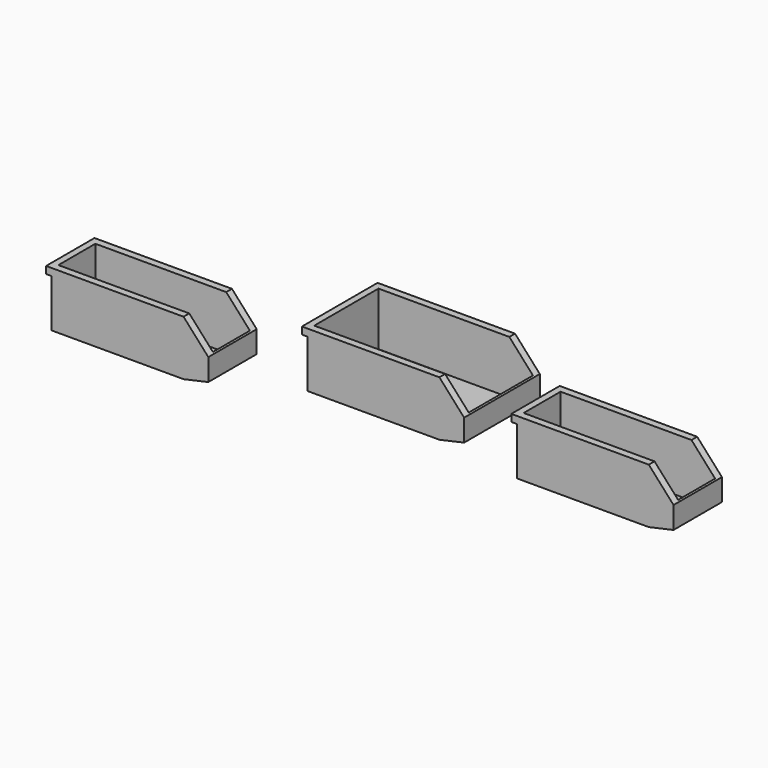
from build123d import *

# Parameters (mm, degrees)
F0_W      = 295
F0_H      = 172
F1_DEPTH  = 100
F3_W      = 281
F3_H      = 146
F4_DEPTH  = 97
F2_W      = 10
F2_H      = 87
F5_DEPTH  = 172.001
F6_W      = 46.097722
F6_H      = 172
F7_DEPTH  = 3
F8_W      = 295
F8_H      = 110
F9_DEPTH  = 100
F12_W     = 281
F12_H     = 84
F13_DEPTH = 97
F10_W     = 10
F10_H     = 87
F14_DEPTH = 167.500991
F11_W     = 10
F11_H     = 87
F15_DEPTH = 110.001
F16_DEPTH = 97
F17_W     = 46.097722
F17_H     = 110
F18_DEPTH = 3
F19_W     = 46.097722
F19_H     = 110
F20_DEPTH = 3


with BuildPart() as f1:
    # F0 (on Top) → F1 (new body)
    with BuildSketch(Plane.XY):
        Rectangle(F0_W, F0_H)
    extrude(amount=F1_DEPTH)

    # F3 (on face) → F4 (cut)
    with BuildSketch(Plane.XY.offset(100)):
        with Locations((5, 0)):
            Rectangle(F3_W, F3_H)
    extrude(amount=-F4_DEPTH, mode=Mode.SUBTRACT)

    # F2 (on face) → F5 (cut, through all)
    with BuildSketch(Plane.XZ.offset(86)):
        with Locations((-142.5, 43.5)):
            Rectangle(F2_W, F2_H)
        Polygon((102.5, 100), (147.5, 50), (147.5, 100), align=None)
        Polygon((147.5, 0), (147.5, 10), (102.5, 0), align=None)
    extrude(amount=-F5_DEPTH, mode=Mode.SUBTRACT)

    # F6 (on face) → F7 (join)
    with BuildSketch(Plane(origin=(4.823529, 0, -21.705882), x_dir=(0.976187, 0, 0.21693), z_dir=(0.21693, 0, -0.976187))):
        with Locations((123.108035, 0)):
            Rectangle(F6_W, F6_H)
        with Locations((123.108035, 0)):
            Rectangle(F6_W, F6_H)
    extrude(amount=-F7_DEPTH)


with BuildPart() as f9:
    # F8 (on Top) → F9 (new body)
    with BuildSketch(Plane.XY):
        with Locations((400, -55)):
            Rectangle(F8_W, F8_H)
        with Locations((-400, -112.499991)):
            Rectangle(F8_W, F8_H)
    extrude(amount=F9_DEPTH)

    # F12 (on face) → F13 (cut)
    with BuildSketch(Plane.XY.offset(100)):
        with Locations((405, -55)):
            Rectangle(F12_W, F12_H)
    extrude(amount=-F13_DEPTH, mode=Mode.SUBTRACT)

    # F10 (on face) → F14 (cut, through all)
    with BuildSketch(Plane(origin=(0, 0, 0), x_dir=(-1, 0, 0), z_dir=(0, 1, 0))):
        Polygon((-547.5, 100), (-547.5, 50), (-502.5, 100), align=None)
        Polygon((-502.5, 0), (-547.5, 10), (-547.5, 0), align=None)
        with Locations((-257.5, 43.5)):
            Rectangle(F10_W, F10_H)
    extrude(amount=-F14_DEPTH, mode=Mode.SUBTRACT)

    # F11 (on face) → F15 (cut, through all)
    with BuildSketch(Plane(origin=(0, -57.499991, 0), x_dir=(-1, 0, 0), z_dir=(0, 1, 0))):
        Polygon((252.5, 50), (297.5, 100), (252.5, 100), align=None)
        Polygon((297.5, 0), (252.5, 10), (252.5, 0), align=None)
        with Locations((542.5, 43.5)):
            Rectangle(F11_W, F11_H)
    extrude(amount=-F15_DEPTH, mode=Mode.SUBTRACT)

    # F12 (on face) → F16 (cut)
    with BuildSketch(Plane.XY.offset(100)):
        with Locations((-395, -112.499991)):
            Rectangle(F12_W, F12_H)
    extrude(amount=-F16_DEPTH, mode=Mode.SUBTRACT)

    # F17 (on face) → F18 (join)
    with BuildSketch(Plane(origin=(23.647059, 0, -106.411765), x_dir=(0.976187, 0, 0.21693), z_dir=(0.21693, 0, -0.976187))):
        with Locations((513.582859, 55)):
            Rectangle(F17_W, F17_H)
        with Locations((513.582859, 55)):
            Rectangle(F17_W, F17_H)
    extrude(amount=-F18_DEPTH)

    # F19 (on face) → F20 (join)
    with BuildSketch(Plane(origin=(-14, 0, 63), x_dir=(0.976187, 0, 0.21693), z_dir=(0.21693, 0, -0.976187))):
        with Locations((-267.366789, 112.499991)):
            Rectangle(F19_W, F19_H)
        with Locations((-267.366789, 112.499991)):
            Rectangle(F19_W, F19_H)
    extrude(amount=-F20_DEPTH)


solid = Compound([f1.part, f9.part])
